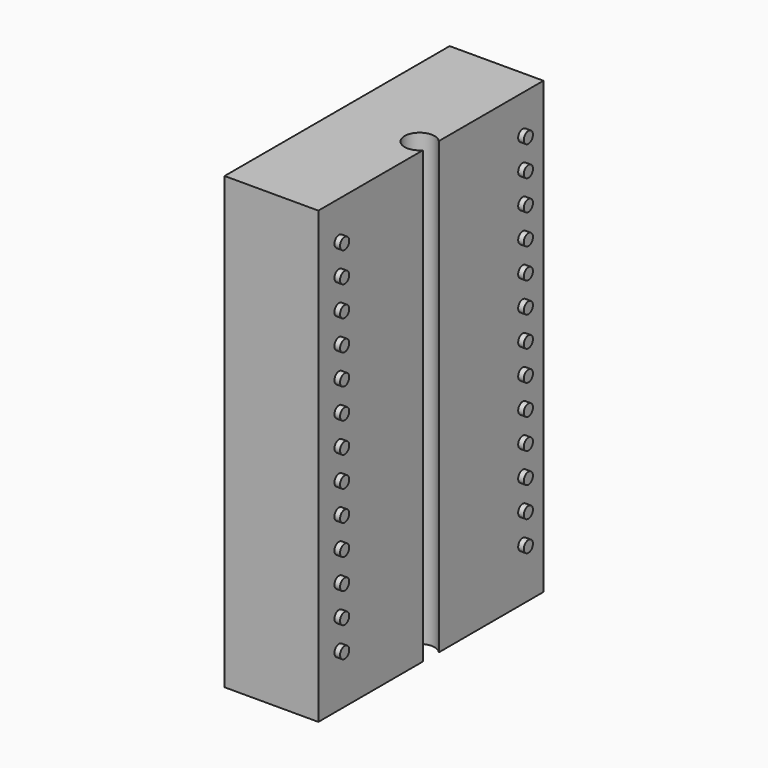
from build123d import *

# Parameters (mm, degrees)
F0_W     = 25
F0_H     = 75
F1_DEPTH = 120
F2_R     = 1.525
F3_DEPTH = 1.5
F5_DEPTH = 120.001
F6_R     = 1.5
F7_DEPTH = 1.5


with BuildPart() as f1:
    # F0 (on Top) → F1 (new body)
    with BuildSketch(Plane.XY):
        Rectangle(F0_W, F0_H)
    extrude(amount=F1_DEPTH)

    # F2 (on face) → F3 (join)
    with BuildSketch(Plane.YZ.offset(12.5)):
        with Locations((-30.615, 110)):
            Circle(F2_R)
        with Locations((-30.615, 102)):
            Circle(F2_R)
        with Locations((-30.615, 94)):
            Circle(F2_R)
        with Locations((-30.615, 86)):
            Circle(F2_R)
        with Locations((-30.615, 78)):
            Circle(F2_R)
        with Locations((-30.615, 70)):
            Circle(F2_R)
        with Locations((-30.615, 62)):
            Circle(F2_R)
        with Locations((-30.615, 54)):
            Circle(F2_R)
        with Locations((-30.615, 46)):
            Circle(F2_R)
        with Locations((-30.615, 30)):
            Circle(F2_R)
        with Locations((-30.615, 38)):
            Circle(F2_R)
        with Locations((-30.615, 22)):
            Circle(F2_R)
        with Locations((-30.615, 14)):
            Circle(F2_R)
        with Locations((30.615, 110)):
            Circle(F2_R)
        with Locations((30.615, 102)):
            Circle(F2_R)
        with Locations((30.615, 94)):
            Circle(F2_R)
        with Locations((30.615, 86)):
            Circle(F2_R)
        with Locations((30.615, 78)):
            Circle(F2_R)
        with Locations((30.615, 70)):
            Circle(F2_R)
        with Locations((30.615, 62)):
            Circle(F2_R)
        with Locations((30.615, 54)):
            Circle(F2_R)
        with Locations((30.615, 46)):
            Circle(F2_R)
        with Locations((30.615, 38)):
            Circle(F2_R)
        with Locations((30.615, 30)):
            Circle(F2_R)
        with Locations((30.615, 22)):
            Circle(F2_R)
        with Locations((30.615, 14)):
            Circle(F2_R)
    extrude(amount=F3_DEPTH)

    # F4 (on face) → F5 (cut, through all)
    with BuildSketch(Plane.XY.offset(120)):
        with BuildLine():
            ThreePointArc((12.5, 2.645751), (5.5, 0), (12.5, -2.645751))
            Line((12.5, -2.645751), (12.5, 2.645751))
        make_face()
    extrude(amount=-F5_DEPTH, mode=Mode.SUBTRACT)

    # F6 (on face) → F7 (join)
    with BuildSketch(Plane(origin=(0, 0, 0), x_dir=(1, 0, 0), z_dir=(0, 0, -1))):
        with Locations((0, 32.5)):
            Circle(F6_R)
        with Locations((0, -32.5)):
            Circle(F6_R)
    extrude(amount=F7_DEPTH)


solid = f1.part
